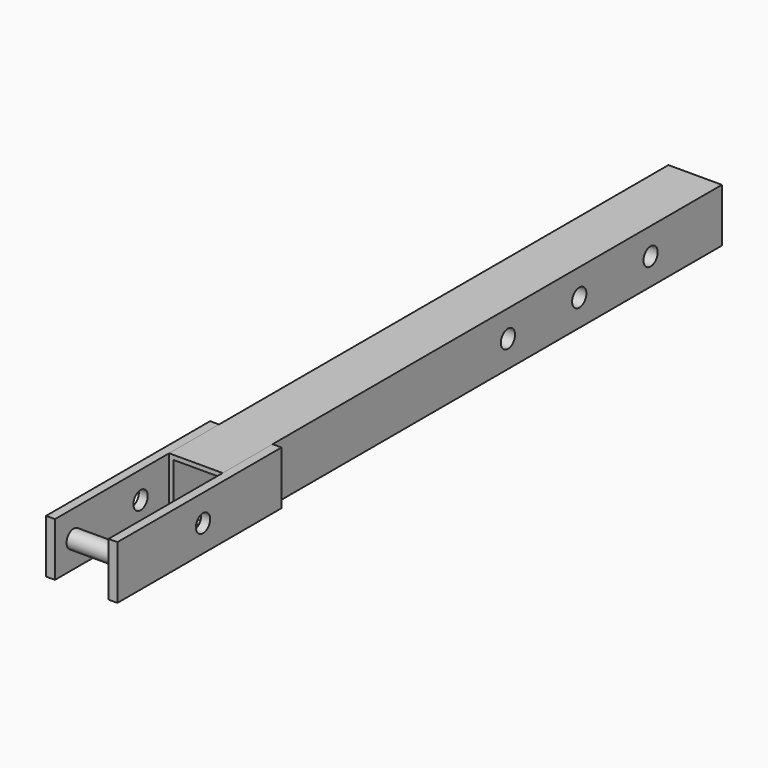
from build123d import *

# Parameters (mm, degrees)
F0_W      = 60
F0_H      = 60
F0_W_2    = 50
F0_H_2    = 50
F1_DEPTH  = 700
F2_W      = 160
F2_H      = 60
F2_W_2    = 70
F3_DEPTH  = 10
F4_R      = 10
F6_DEPTH  = 70
F7_R      = 13
F7_R_2    = 10
F8_DEPTH  = 60
F9_DEPTH  = 70.001
F10_R     = 10
F11_DEPTH = 80.001


with BuildPart() as f1:
    # F0 (on Front) → F1 (new body)
    with BuildSketch(Plane.XZ):
        Rectangle(F0_W, F0_H)
        Rectangle(F0_W_2, F0_H_2, mode=Mode.SUBTRACT)
    extrude(amount=-F1_DEPTH)

    # F7 (on face) → F8 (join, through all)
    with BuildSketch(Plane.YZ.offset(30)):
        with Locations((400, 0)):
            Circle(F7_R)
        with Locations((400, 0)):
            Circle(F7_R_2, mode=Mode.SUBTRACT)
        with Locations((500, 0)):
            Circle(F7_R)
        with Locations((500, 0)):
            Circle(F7_R_2, mode=Mode.SUBTRACT)
        with Locations((600, 0)):
            Circle(F7_R)
        with Locations((600, 0)):
            Circle(F7_R_2, mode=Mode.SUBTRACT)
    extrude(amount=-F8_DEPTH)

    # F7 (on face) → F9 (cut, through all)
    with BuildSketch(Plane.YZ.offset(30)):
        with Locations((600, 0)):
            Circle(F7_R_2)
        with Locations((500, 0)):
            Circle(F7_R_2)
        with Locations((400, 0)):
            Circle(F7_R_2)
    extrude(amount=-F9_DEPTH, mode=Mode.SUBTRACT)


with BuildPart() as f3:
    # F2 (on face) → F3 (new body)
    with BuildSketch(Plane.YZ.offset(30)):
        with Locations((-80, 0)):
            Rectangle(F2_W, F2_H)
        with Locations((35, 0)):
            Rectangle(F2_W_2, F2_H)
    extrude(amount=F3_DEPTH)


with BuildPart() as f5_1:
    # F5: instance of F3
    add(f3.part.mirror(Plane.YZ))


with BuildPart() as f6:
    # F4 (on face) → F6 (new body, through all)
    with BuildSketch(Plane.YZ.offset(40)):
        with Locations((-133.8124871254, 0)):
            Circle(F4_R)
    extrude(amount=-F6_DEPTH)


with BuildPart() as f11_tool:
    # F10 (on face) → F11 (new body, through all)
    with BuildSketch(Plane.YZ.offset(40)):
        with Locations((-40, 0)):
            Circle(F10_R)
    extrude(amount=-F11_DEPTH)


with BuildPart() as f3_1:
    add(f3.part)

    # F11: cut by f11_tool
    add(f11_tool.part, mode=Mode.SUBTRACT)


with BuildPart() as f5_1_1:
    add(f5_1.part)

    # F11: cut by f11_tool
    add(f11_tool.part, mode=Mode.SUBTRACT)


solid = Compound([f1.part, f6.part, f3_1.part, f5_1_1.part])
